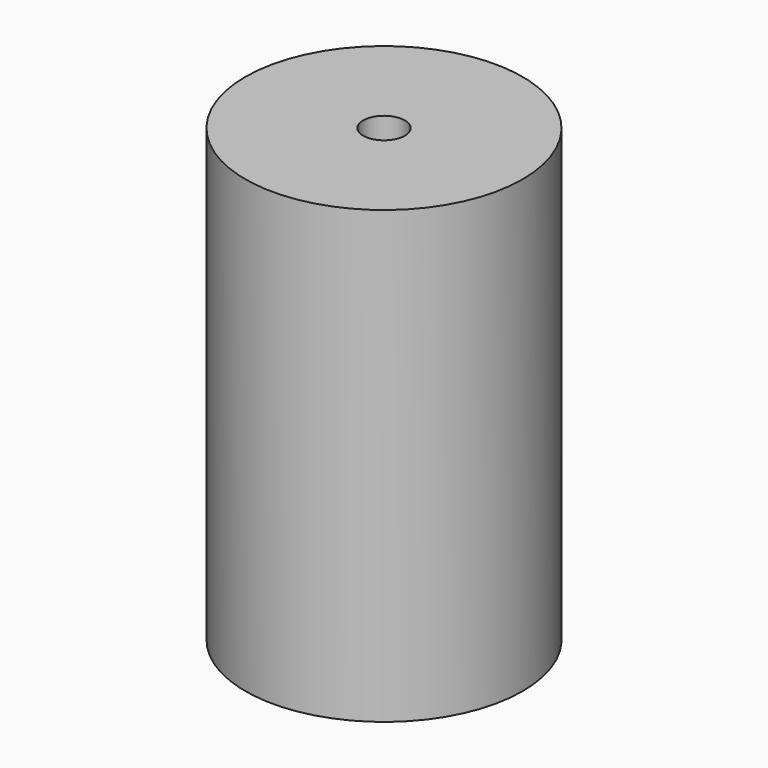
from build123d import *

# Parameters (mm, degrees)
SKETCH_R     = 8
PAD_DEPTH    = 26
SKETCH001_R  = 1.2
POCKET_DEPTH = 35


with BuildPart() as part:
    # Sketch → Pad (new body)
    with BuildSketch(Plane.XY):
        Circle(SKETCH_R)
    extrude(amount=PAD_DEPTH)

    # Sketch001 (on Face3 of Pad) → Pocket (cut)
    with BuildSketch(Plane.XY.offset(26)):
        Circle(SKETCH001_R)
    extrude(amount=-POCKET_DEPTH, mode=Mode.SUBTRACT)


solid = part.part
